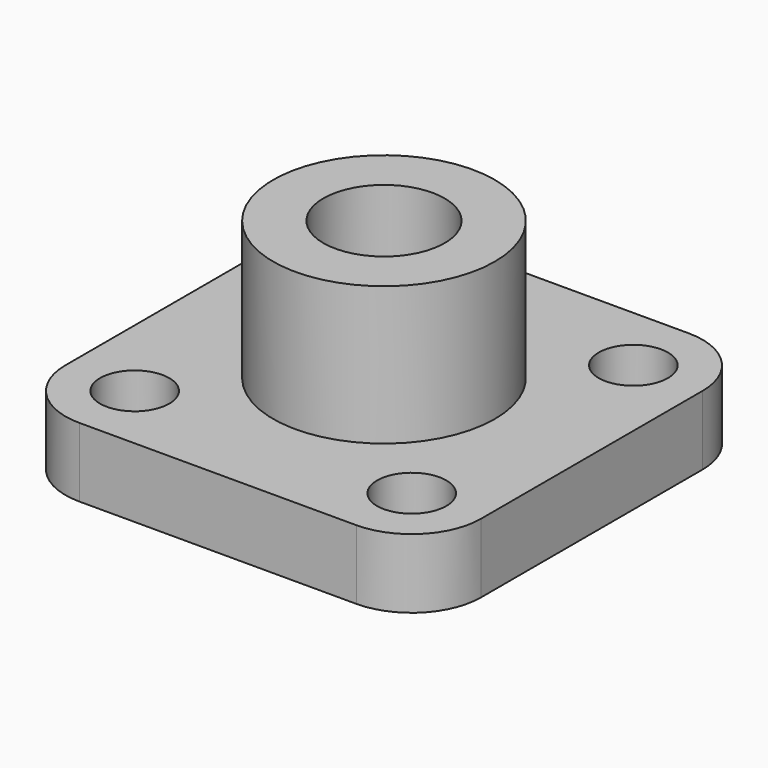
from build123d import *

# Parameters (mm, degrees)
F0_W     = 60
F0_H     = 60
F0_W_2   = 40
F0_H_2   = 40
F0_R     = 16
F1_DEPTH = 10
F2_R     = 10
F3_D     = 10
F3_DEPTH = 10
F3_TIP   = 3.0043030951
F4_DEPTH = 30
F6_D     = 17.5
F6_DEPTH = 30
F6_TIP   = 5.2575304165


with BuildPart() as f1:
    # F0 (on Top) → F1 (new body)
    with BuildSketch(Plane.XY):
        Rectangle(F0_W, F0_H)
        Rectangle(F0_W_2, F0_H_2, mode=Mode.SUBTRACT)
        Rectangle(F0_W_2, F0_H_2)
        Circle(F0_R, mode=Mode.SUBTRACT)
        Circle(F0_R)
    extrude(amount=F1_DEPTH)

    # F2
    f2_edges = [f1.edges().sort_by_distance(p)[0] for p in [
        (-30, -30, 5),
        (30, -30, 5),
        (30, 30, 5),
        (-30, 30, 5),
    ]]
    fillet(f2_edges, radius=F2_R)

    # F3
    with Locations(Plane(origin=(0, 0, 0), x_dir=(1, 0, 0), z_dir=(0, 0, -1))):
        with Locations((20, 20), (-20, 20), (-20, -20), (20, -20)):
            Hole(F3_D / 2, depth=F3_DEPTH)
            with Locations((0, 0, -(F3_DEPTH + F3_TIP / 2))):  # 118° drill point
                Cone(0, F3_D / 2, F3_TIP, mode=Mode.SUBTRACT)

    # F0 (on Top) → F4 (join)
    with BuildSketch(Plane.XY):
        Circle(F0_R)
    extrude(amount=F4_DEPTH)

    # F6
    with Locations(Plane.XY.offset(30)):
        with Locations((0, 0)):
            Hole(F6_D / 2, depth=F6_DEPTH)
            with Locations((0, 0, -(F6_DEPTH + F6_TIP / 2))):  # 118° drill point
                Cone(0, F6_D / 2, F6_TIP, mode=Mode.SUBTRACT)


solid = f1.part
